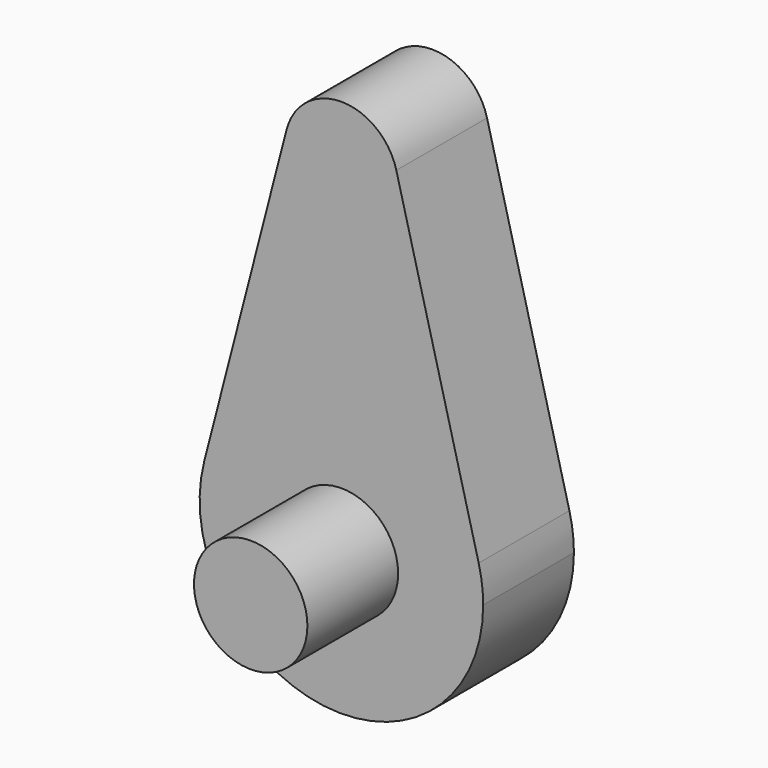
from build123d import *

# Parameters (mm, degrees)
F1_DEPTH = 20
F2_R     = 10
F3_DEPTH = 20


with BuildPart() as f1:
    # F0 (on Front) → F1 (new body)
    with BuildSketch(Plane.XZ):
        with BuildLine():
            ThreePointArc((-9.682458, 62.5), (-1.260043, 50.079703), (10, 60))
            ThreePointArc((10, 60), (9.920297, 61.260043), (9.682458, 62.5))
            ThreePointArc((9.682458, 62.5), (0, 70), (-9.682458, 62.5))
        make_face()
        with BuildLine():
            ThreePointArc((9.682458, 62.5), (9.920297, 61.260043), (10, 60))
            ThreePointArc((10, 60), (-1.260043, 50.079703), (-9.682458, 62.5))
            Line((-9.682458, 62.5), (-24.206146, 6.25))
            ThreePointArc((-24.206146, 6.25), (0, 25), (24.206146, 6.25))
            Line((24.206146, 6.25), (9.682458, 62.5))
        make_face()
        with BuildLine():
            ThreePointArc((25, 0), (24.800742, 3.150107), (24.206146, 6.25))
            ThreePointArc((24.206146, 6.25), (0, 25), (-24.206146, 6.25))
            ThreePointArc((-24.206146, 6.25), (-3.150107, -24.800742), (25, 0))
        make_face()
    extrude(amount=F1_DEPTH)

    # F2 (on face) → F3 (join)
    with BuildSketch(Plane.XZ.offset(20)):
        Circle(F2_R)
    extrude(amount=F3_DEPTH)


solid = f1.part
